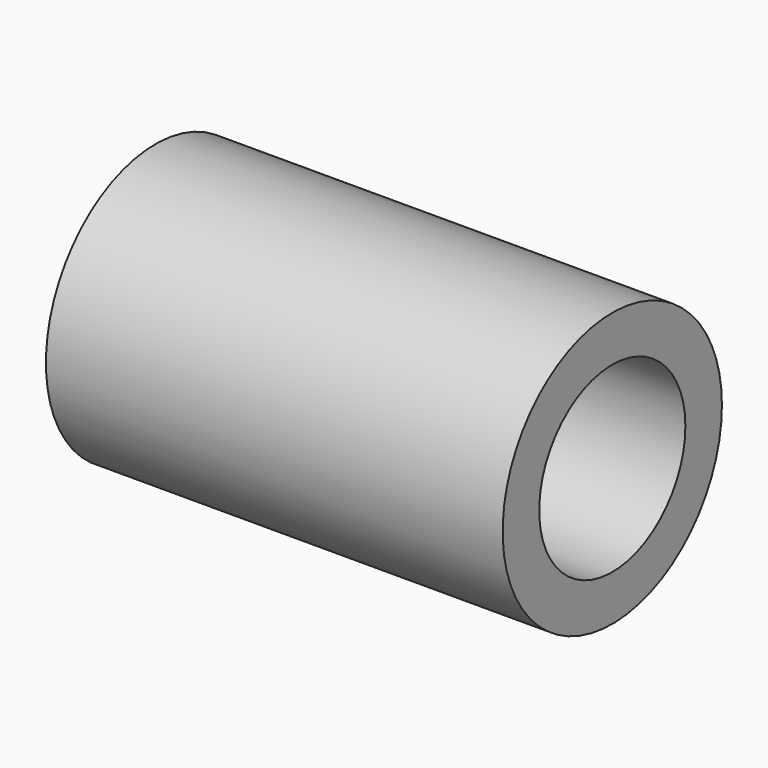
from build123d import *

# Parameters (mm, degrees)
F0_R     = 7.5
F2_DEPTH = 25
F1_R     = 5
F3_DEPTH = 25


with BuildPart() as f2:
    # F0 (on Right) → F2 (new body)
    with BuildSketch(Plane.YZ):
        Circle(F0_R)
    extrude(amount=F2_DEPTH)

    # F1 (on face) → F3 (cut)
    with BuildSketch(Plane.YZ):
        Circle(F1_R)
    extrude(amount=F3_DEPTH, mode=Mode.SUBTRACT)


solid = f2.part
